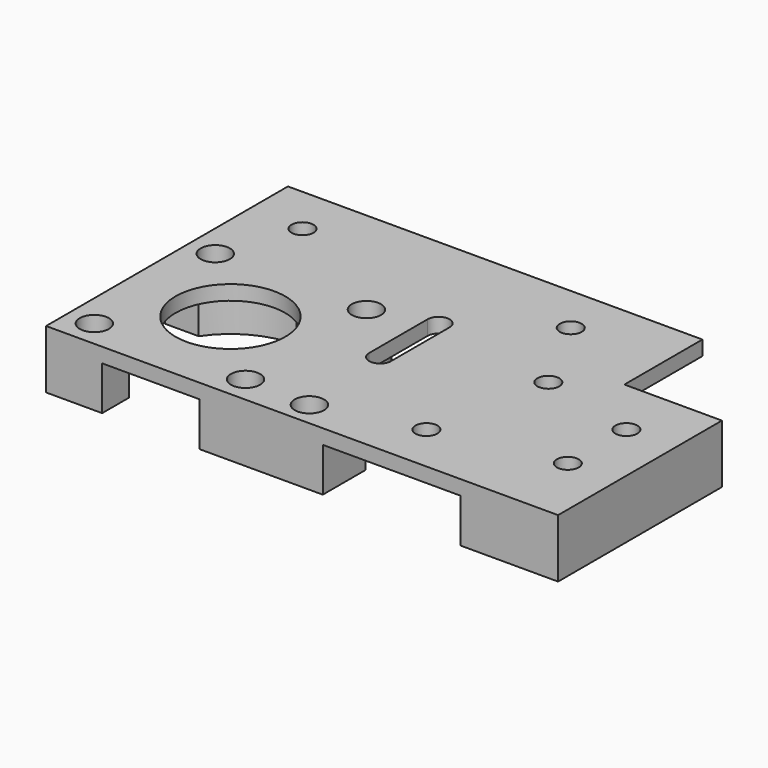
from build123d import *

# Parameters (mm, degrees)
SKETCH_R        = 2.25
SKETCH_R_2      = 11.25
SKETCH_R_3      = 1.75
PAD_DEPTH       = 12
POCKET_DEPTH    = 9
SKETCH002_R     = 4
PAD001_DEPTH    = 8
SKETCH003_R     = 3
POCKET001_DEPTH = 8
SKETCH004_R     = 1.75
POCKET002_DEPTH = 5


with BuildPart() as pocket_belt_path:
    # Sketch → Pad (new body)
    with BuildSketch(Plane.XY):
        Polygon((0, 0), (105, 0), (105, 62), (20, 62), (20, 42), (0, 42), align=None)
        with Locations((35, 10)):
            Circle(SKETCH_R, mode=Mode.SUBTRACT)
        with Locations((30, 35)):
            Circle(SKETCH_R, mode=Mode.SUBTRACT)
        with Locations((84, 21)):
            Circle(SKETCH_R_2, mode=Mode.SUBTRACT)
        with Locations((68.5, 36.5)):
            Circle(SKETCH_R_3, mode=Mode.SUBTRACT)
        with Locations((99.5, 36.5)):
            Circle(SKETCH_R_3, mode=Mode.SUBTRACT)
        with Locations((68.5, 5.5)):
            Circle(SKETCH_R_3, mode=Mode.SUBTRACT)
        with Locations((99.5, 5.5)):
            Circle(SKETCH_R_3, mode=Mode.SUBTRACT)
        with Locations((10, 30)):
            Circle(SKETCH_R, mode=Mode.SUBTRACT)
        with Locations((10, 15)):
            Circle(SKETCH_R, mode=Mode.SUBTRACT)
        with Locations((39, 52)):
            Circle(SKETCH_R, mode=Mode.SUBTRACT)
        with Locations((94, 52)):
            Circle(SKETCH_R, mode=Mode.SUBTRACT)
        with Locations((55, 5)):
            Circle(SKETCH_R_3, mode=Mode.SUBTRACT)
        with BuildLine():
            Line((58.75, 25), (58.75, 40))
            ThreePointArc((58.75, 40), (56.5, 42.25), (54.25, 40))
            Line((54.25, 25), (54.25, 40))
            ThreePointArc((54.25, 25), (56.5, 22.75), (58.75, 25))
        make_face(mode=Mode.SUBTRACT)
    extrude(amount=PAD_DEPTH)

    # Sketch001 → Pocket (cut)
    with BuildSketch(Plane.XY.offset(12)):
        with BuildLine():
            ThreePointArc((38.485281, 42), (36.015595, 44.209377), (32.999996, 45.583006))
            Line((32.999996, 67), (32.999996, 45.583006))
            Line((20, 67), (32.999996, 67))
            Line((20, -1), (20, 67))
            Line((20, -1), (48.252269, -1))
            Line((48.252269, 11), (48.252269, -1))
            Line((48.252269, 11), (70.252269, 11))
            ThreePointArc((70.252269, 11), (71.759618, 9.202833), (73.499996, 7.630258))
            Line((73.499996, 7.630258), (73.499996, -1))
            Line((73.499996, -1), (93.499996, -1))
            Line((93.499996, -1), (93.499996, 6.902128))
            ThreePointArc((93.499996, 6.902128), (95.574295, 8.548671), (97.367695, 10.497399))
            Line((105.499996, 10.497399), (97.367695, 10.497399))
            Line((105.499996, 30.497399), (105.499996, 10.497399))
            Line((98.099621, 30.497399), (105.499996, 30.497399))
            ThreePointArc((98.099621, 30.497399), (91.98574, 36.007594), (83.999996, 38))
            Line((83.999996, 38), (83.999996, 67))
            Line((83.999996, 67), (43.999996, 67))
            Line((43.999996, 67), (43.999996, 42))
            Line((38.485281, 42), (43.999996, 42))
        make_face()
    extrude(amount=-POCKET_DEPTH, mode=Mode.SUBTRACT)


with BuildPart() as pocket002:
    # Part__Mirroring: instance of Pocket belt path
    add(pocket_belt_path.part.mirror(Plane(origin=(0, 0, 0), x_dir=(0, 1, 0), z_dir=(0, 0, 1))))

    # Sketch002 → Pad001 (new body)
    with BuildSketch(Plane(origin=(0, 0, -3), x_dir=(1, 0, 0), z_dir=(0, 0, -1))):
        with Locations((68.5, -36.5)):
            Circle(SKETCH002_R)
    extrude(amount=PAD001_DEPTH)

    # Sketch003 → Pocket001 (cut)
    with BuildSketch(Plane.XY):
        with Locations((55, 5)):
            Circle(SKETCH003_R)
        with Locations((68.5, 36.5)):
            Circle(SKETCH003_R)
        with Locations((68.5, 5.5)):
            Circle(SKETCH003_R)
        with Locations((99.5, 36.5)):
            Circle(SKETCH003_R)
        with Locations((99.5, 5.5)):
            Circle(SKETCH003_R)
    extrude(amount=-POCKET001_DEPTH, mode=Mode.SUBTRACT)

    # Sketch004 → Pocket002 (cut)
    with BuildSketch(Plane.XY.offset(-8)):
        with Locations((68.5, 36.5)):
            Circle(SKETCH004_R)
    extrude(amount=-POCKET002_DEPTH, mode=Mode.SUBTRACT)


with BuildPart() as part_mirroring001:
    # Part__Mirroring001: instance of Pocket002
    add(pocket002.part.mirror(Plane(origin=(0, 0, 0), x_dir=(0, -1, 0), z_dir=(1, 0, 0))))


solid = part_mirroring001.part
